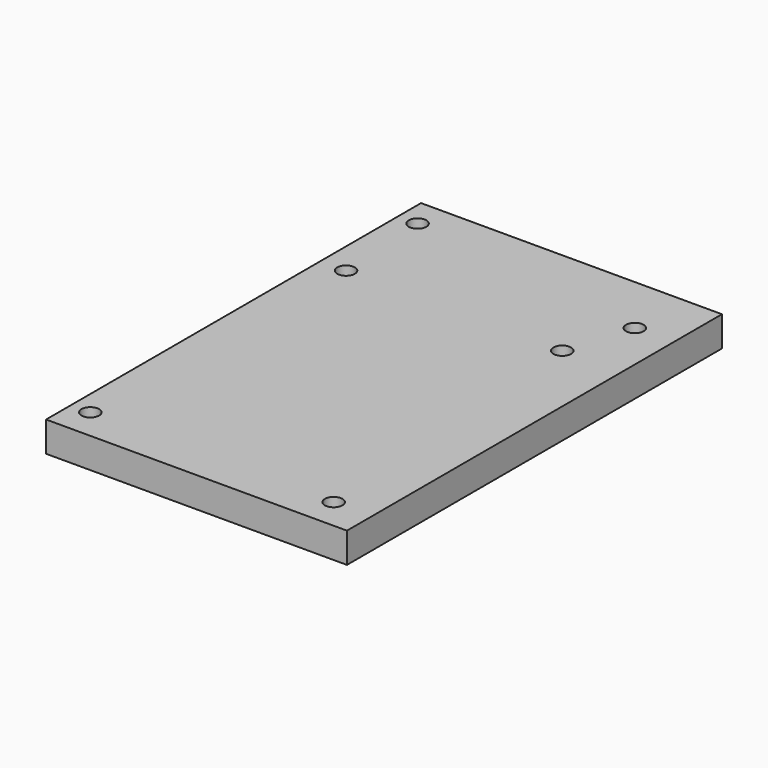
from build123d import *

# Parameters (mm, degrees)
SKETCH_W  = 59.804352
SKETCH_H  = 93.166247
SKETCH_R  = 1.75
PAD_DEPTH = 6


with BuildPart() as part:
    # Sketch → Pad (new body)
    with BuildSketch(Plane.XY):
        with Locations((-180.464356, 20.606759)):
            Rectangle(SKETCH_W, SKETCH_H)
        with Locations((-206.510574, -19.80431)):
            Circle(SKETCH_R, mode=Mode.SUBTRACT)
        with Locations((-158.163742, -19.77437)):
            Circle(SKETCH_R, mode=Mode.SUBTRACT)
        with Locations((-205.278183, 42.195728)):
            Circle(SKETCH_R, mode=Mode.SUBTRACT)
        with Locations((-162.254868, 42.135777)):
            Circle(SKETCH_R, mode=Mode.SUBTRACT)
        with Locations((-158.220062, 55.122929)):
            Circle(SKETCH_R, mode=Mode.SUBTRACT)
        with Locations((-206.489227, 61.479671)):
            Circle(SKETCH_R, mode=Mode.SUBTRACT)
    extrude(amount=PAD_DEPTH)


solid = part.part
